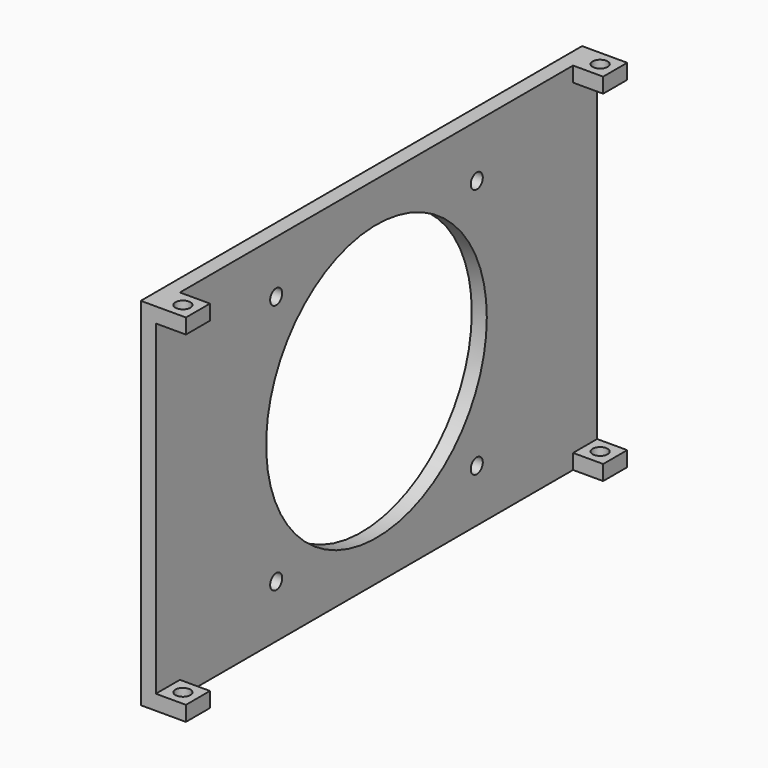
from build123d import *

# Parameters (mm, degrees)
SKETCH004_W   = 110
SKETCH004_H   = 71
SKETCH004_R   = 1.5
SKETCH004_R_2 = 27.5
PAD001_DEPTH  = 3
SKETCH005_W   = 6
SKETCH005_H   = 6
SKETCH005_R   = 1.5
PAD002_DEPTH  = 3


with BuildPart() as coverplane:
    # Sketch004 → Pad001 (new body)
    with BuildSketch(Plane.YZ):
        Rectangle(SKETCH004_W, SKETCH004_H)
        with Locations((25, 25)):
            Circle(SKETCH004_R, mode=Mode.SUBTRACT)
        with Locations((-25, 25)):
            Circle(SKETCH004_R, mode=Mode.SUBTRACT)
        with Locations((25, -25)):
            Circle(SKETCH004_R, mode=Mode.SUBTRACT)
        with Locations((-25, -25)):
            Circle(SKETCH004_R, mode=Mode.SUBTRACT)
        Circle(SKETCH004_R_2, mode=Mode.SUBTRACT)
    extrude(amount=PAD001_DEPTH)

    # Sketch005 → Pad002 (join)
    with BuildSketch(Plane.XY.offset(-35.5)):
        with Locations((-3, 52)):
            Rectangle(SKETCH005_W, SKETCH005_H)
        with Locations((-3, 52)):
            Circle(SKETCH005_R, mode=Mode.SUBTRACT)
        with Locations((-3, -52)):
            Rectangle(SKETCH005_W, SKETCH005_H)
        with Locations((-3, -52)):
            Circle(SKETCH005_R, mode=Mode.SUBTRACT)
    pad002 = extrude(amount=PAD002_DEPTH)

    # Mirrored: Pad002 across XY
    add(pad002.mirror(Plane.XY))


with BuildPart() as part_mirroring:
    # Part__Mirroring: instance of coverplane
    add(coverplane.part.mirror(Plane(origin=(-32.5, 0, 0), x_dir=(0, -1, 0), z_dir=(1, 0, 0))))


solid = part_mirroring.part
